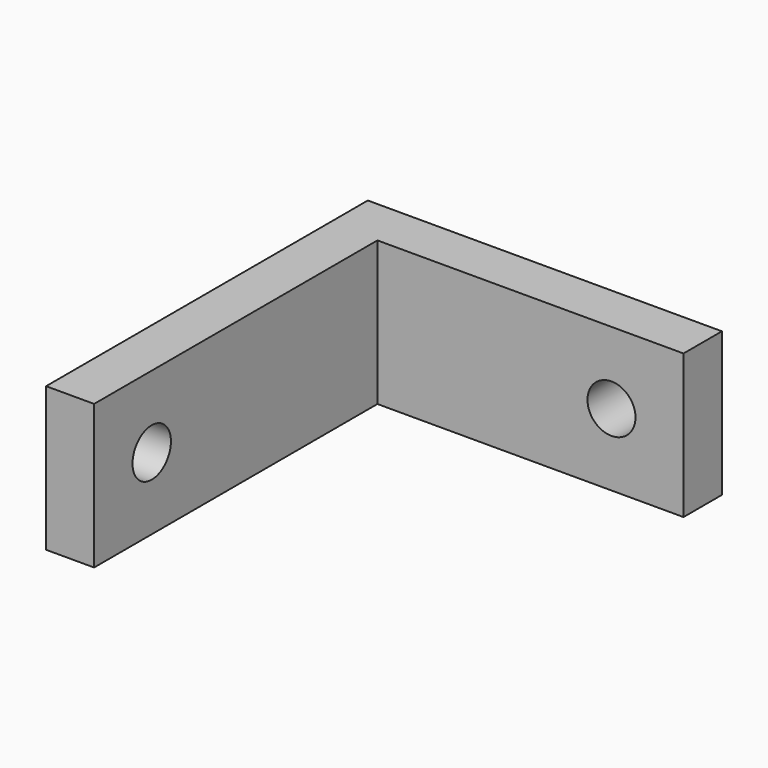
from build123d import *

# Parameters (mm, degrees)
F0_W     = 14.75
F0_H     = 6
F0_R     = 1
F1_DEPTH = 2
F2_W     = 2
F2_H     = 6
F3_DEPTH = 14.75
F4_R     = 1
F5_DEPTH = 25


with BuildPart() as f1:
    # F0 (on Front) → F1 (new body)
    with BuildSketch(Plane.XZ):
        with Locations((7.375, 3)):
            Rectangle(F0_W, F0_H)
        with Locations((11.75, 3)):
            Circle(F0_R, mode=Mode.SUBTRACT)
    extrude(amount=F1_DEPTH)

    # F2 (on face) → F3 (join)
    with BuildSketch(Plane.XZ.offset(2)):
        with Locations((1, 3)):
            Rectangle(F2_W, F2_H)
    extrude(amount=F3_DEPTH)

    # F4 (on face) → F5 (cut)
    with BuildSketch(Plane.YZ.offset(2)):
        with Locations((-13.75, 3)):
            Circle(F4_R)
    extrude(amount=-F5_DEPTH, mode=Mode.SUBTRACT)


solid = f1.part
